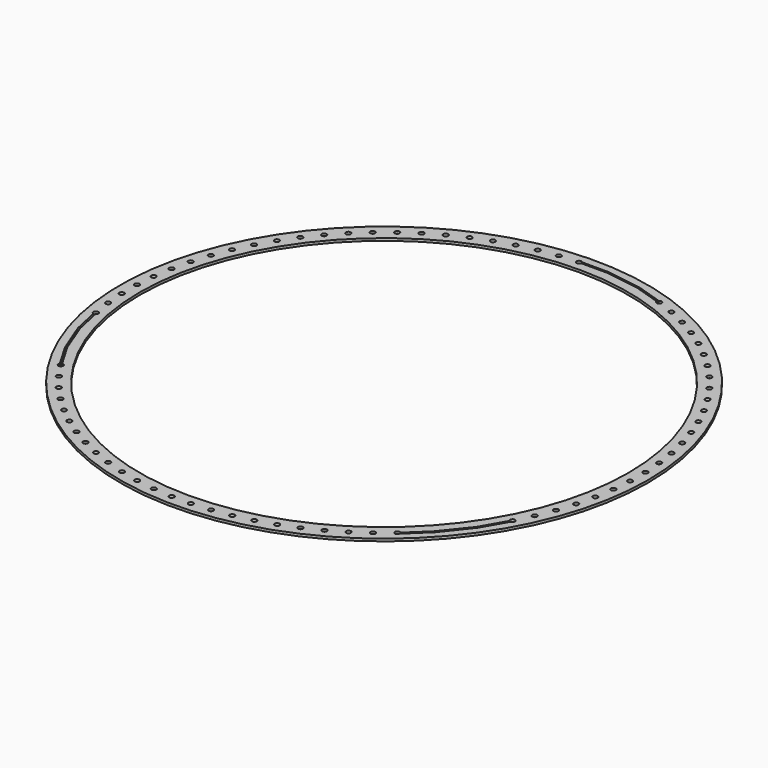
from build123d import *

# Parameters (mm, degrees)
F0_R     = 685.8
F0_R_2   = 6.35
F0_R_3   = 635
F1_DEPTH = 6.35


with BuildPart() as f1:
    # F0 (on Top) → F1 (new body)
    with BuildSketch(Plane.XY):
        Circle(F0_R)
        with Locations((-352.110822, -558.700393)):
            Circle(F0_R_2, mode=Mode.SUBTRACT)
        with Locations((-393.085485, -530.671237)):
            Circle(F0_R_2, mode=Mode.SUBTRACT)
        with Locations((-532.658582, -390.388261)):
            Circle(F0_R_2, mode=Mode.SUBTRACT)
        with Locations((-431.838824, -499.643263)):
            Circle(F0_R_2, mode=Mode.SUBTRACT)
        with Locations((-501.827608, -429.298511)):
            Circle(F0_R_2, mode=Mode.SUBTRACT)
        with Locations((-468.16081, -465.782799)):
            Circle(F0_R_2, mode=Mode.SUBTRACT)
        with Locations((-264.434964, -605.146519)):
            Circle(F0_R_2, mode=Mode.SUBTRACT)
        with Locations((-218.229223, -623.301024)):
            Circle(F0_R_2, mode=Mode.SUBTRACT)
        with Locations((-309.146385, -583.572337)):
            Circle(F0_R_2, mode=Mode.SUBTRACT)
        with Locations((-122.386184, -648.96054)):
            Circle(F0_R_2, mode=Mode.SUBTRACT)
        with Locations((-170.79027, -637.933259)):
            Circle(F0_R_2, mode=Mode.SUBTRACT)
        with Locations((-73.290494, -656.320549)):
            Circle(F0_R_2, mode=Mode.SUBTRACT)
        with Locations((-23.78064, -659.971697)):
            Circle(F0_R_2, mode=Mode.SUBTRACT)
        with BuildLine():
            ThreePointArc((-561.930553, -343.089944), (-556.535629, -344.295153), (-554.129507, -349.271931))
            ThreePointArc((-554.129507, -349.271931), (-562.262715, -355.36641), (-565.827987, -345.849027))
            Line((-565.827987, -345.849027), (-601.958696, -284.23674))
            Line((-601.958696, -284.23674), (-634.753594, -200.992062))
            Line((-634.753594, -200.992062), (-649.807483, -131.860068))
            ThreePointArc((-649.807483, -131.860068), (-652.263014, -120.699131), (-641.979851, -125.684382))
            ThreePointArc((-641.979851, -125.684382), (-642.840203, -128.875975), (-645.188124, -131.202719))
            Line((-645.188124, -131.202719), (-630.639189, -198.568385))
            Line((-630.639189, -198.568385), (-598.505303, -280.938769))
            Line((-598.505303, -280.938769), (-561.930553, -343.089944))
        make_face(mode=Mode.SUBTRACT)
        with Locations((-655.939404, -76.62675)):
            Circle(F0_R_2, mode=Mode.SUBTRACT)
        with Locations((-659.842248, -27.136101)):
            Circle(F0_R_2, mode=Mode.SUBTRACT)
        with Locations((25.863599, -659.893351)):
            Circle(F0_R_2, mode=Mode.SUBTRACT)
        with Locations((75.361682, -656.085952)):
            Circle(F0_R_2, mode=Mode.SUBTRACT)
        with Locations((124.433897, -648.571018)):
            Circle(F0_R_2, mode=Mode.SUBTRACT)
        with Locations((172.802937, -637.391014)):
            Circle(F0_R_2, mode=Mode.SUBTRACT)
        with Locations((220.195469, -622.609119)):
            Circle(F0_R_2, mode=Mode.SUBTRACT)
        with Locations((266.343678, -604.308866)):
            Circle(F0_R_2, mode=Mode.SUBTRACT)
        with Locations((310.986782, -582.593667)):
            Circle(F0_R_2, mode=Mode.SUBTRACT)
        with Locations((353.872502, -557.586238)):
            Circle(F0_R_2, mode=Mode.SUBTRACT)
        with Locations((394.758491, -529.427893)):
            Circle(F0_R_2, mode=Mode.SUBTRACT)
        with BuildLine():
            ThreePointArc((578.330809, -315.516767), (580.121908, -305.046288), (589.006867, -310.868357))
            ThreePointArc((589.006867, -310.868357), (587.146995, -315.358485), (582.656867, -317.218357))
            Line((582.656867, -317.218357), (547.185732, -379.019656))
            Line((547.185732, -379.019656), (491.732303, -449.04348))
            Line((491.732303, -449.04348), (439.763704, -498.277755))
            ThreePointArc((439.763704, -498.277755), (427.529669, -500.665355), (437.968229, -493.852961))
            Line((437.968229, -493.852961), (487.90386, -446.189437))
            Line((487.90386, -446.189437), (542.557285, -377.844919))
            Line((542.557285, -377.844919), (578.330809, -315.516767))
        make_face(mode=Mode.SUBTRACT)
        with Locations((604.36299, -266.220841)):
            Circle(F0_R_2, mode=Mode.SUBTRACT)
        with Locations((622.653864, -220.068912)):
            Circle(F0_R_2, mode=Mode.SUBTRACT)
        with Locations((637.361585, -172.911452)):
            Circle(F0_R_2, mode=Mode.SUBTRACT)
        with Locations((648.549823, -124.544316)):
            Circle(F0_R_2, mode=Mode.SUBTRACT)
        with Locations((656.073112, -75.473382)):
            Circle(F0_R_2, mode=Mode.SUBTRACT)
        with Locations((659.888938, -25.975947)):
            Circle(F0_R_2, mode=Mode.SUBTRACT)
        with Locations((-660.016329, 22.507894)):
            Circle(F0_R_2, mode=Mode.SUBTRACT)
        with Locations((-656.460664, 72.024697)):
            Circle(F0_R_2, mode=Mode.SUBTRACT)
        with Locations((-649.195345, 121.134488)):
            Circle(F0_R_2, mode=Mode.SUBTRACT)
        with Locations((-638.261428, 169.55975)):
            Circle(F0_R_2, mode=Mode.SUBTRACT)
        with Locations((-623.720702, 217.026832)):
            Circle(F0_R_2, mode=Mode.SUBTRACT)
        with Locations((-605.655336, 263.267496)):
            Circle(F0_R_2, mode=Mode.SUBTRACT)
        with Locations((-584.167416, 308.020438)):
            Circle(F0_R_2, mode=Mode.SUBTRACT)
        with Locations((-559.378371, 351.032759)):
            Circle(F0_R_2, mode=Mode.SUBTRACT)
        with Locations((-531.428284, 392.061398)):
            Circle(F0_R_2, mode=Mode.SUBTRACT)
        with Locations((-500.4751, 430.8745)):
            Circle(F0_R_2, mode=Mode.SUBTRACT)
        with Locations((-466.693735, 467.252734)):
            Circle(F0_R_2, mode=Mode.SUBTRACT)
        with Locations((-430.275088, 500.990527)):
            Circle(F0_R_2, mode=Mode.SUBTRACT)
        with Locations((-391.42496, 531.897227)):
            Circle(F0_R_2, mode=Mode.SUBTRACT)
        with Locations((-350.362894, 559.79818)):
            Circle(F0_R_2, mode=Mode.SUBTRACT)
        with Locations((-307.320929, 584.535719)):
            Circle(F0_R_2, mode=Mode.SUBTRACT)
        with Locations((-262.542296, 605.970051)):
            Circle(F0_R_2, mode=Mode.SUBTRACT)
        with Locations((-216.28004, 623.980051)):
            Circle(F0_R_2, mode=Mode.SUBTRACT)
        with Locations((-168.795586, 638.463946)):
            Circle(F0_R_2, mode=Mode.SUBTRACT)
        with Locations((-120.35727, 649.339886)):
            Circle(F0_R_2, mode=Mode.SUBTRACT)
        with Locations((-71.238816, 656.546412)):
            Circle(F0_R_2, mode=Mode.SUBTRACT)
        Circle(F0_R_3, mode=Mode.SUBTRACT)
        with Locations((659.975736, 23.668277)):
            Circle(F0_R_2, mode=Mode.SUBTRACT)
        with Locations((656.333018, 73.178752)):
            Circle(F0_R_2, mode=Mode.SUBTRACT)
        with Locations((648.981367, 122.275694)):
            Circle(F0_R_2, mode=Mode.SUBTRACT)
        with Locations((637.962328, 170.681658)):
            Circle(F0_R_2, mode=Mode.SUBTRACT)
        with Locations((623.338169, 218.1231)):
            Circle(F0_R_2, mode=Mode.SUBTRACT)
        with Locations((583.624962, 309.047025)):
            Circle(F0_R_2, mode=Mode.SUBTRACT)
        with Locations((605.191532, 264.331932)):
            Circle(F0_R_2, mode=Mode.SUBTRACT)
        with BuildLine():
            ThreePointArc((-15.43927, 659.09272), (-27.892825, 658.562438), (-16.552502, 663.736345))
            Line((-16.552502, 663.736345), (53.381546, 663.736345))
            Line((53.381546, 663.736345), (144.287124, 649.791609))
            Line((144.287124, 649.791609), (210.526942, 628.677552))
            ThreePointArc((210.526942, 628.677552), (217.501997, 630.270613), (221.532645, 624.359343))
            ThreePointArc((221.532645, 624.359343), (215.256126, 618.009768), (208.834346, 624.212392))
            Line((208.834346, 624.212392), (139.948994, 646.180678))
            Line((139.948994, 646.180678), (52.268314, 659.09272))
            Line((52.268314, 659.09272), (-15.43927, 659.09272))
        make_face(mode=Mode.SUBTRACT)
        with Locations((306.292743, 585.075136)):
            Circle(F0_R_2, mode=Mode.SUBTRACT)
        with Locations((261.476495, 606.430707)):
            Circle(F0_R_2, mode=Mode.SUBTRACT)
        with Locations((465.871506, 468.072537)):
            Circle(F0_R_2, mode=Mode.SUBTRACT)
        with Locations((499.716777, 431.753752)):
            Circle(F0_R_2, mode=Mode.SUBTRACT)
        with Locations((429.393599, 501.746248)):
            Circle(F0_R_2, mode=Mode.SUBTRACT)
        with Locations((558.760333, 352.015697)):
            Circle(F0_R_2, mode=Mode.SUBTRACT)
        with Locations((530.738153, 392.99513)):
            Circle(F0_R_2, mode=Mode.SUBTRACT)
        with Locations((390.489192, 532.584595)):
            Circle(F0_R_2, mode=Mode.SUBTRACT)
        with Locations((349.378134, 560.413311)):
            Circle(F0_R_2, mode=Mode.SUBTRACT)
    extrude(amount=F1_DEPTH)


solid = f1.part
